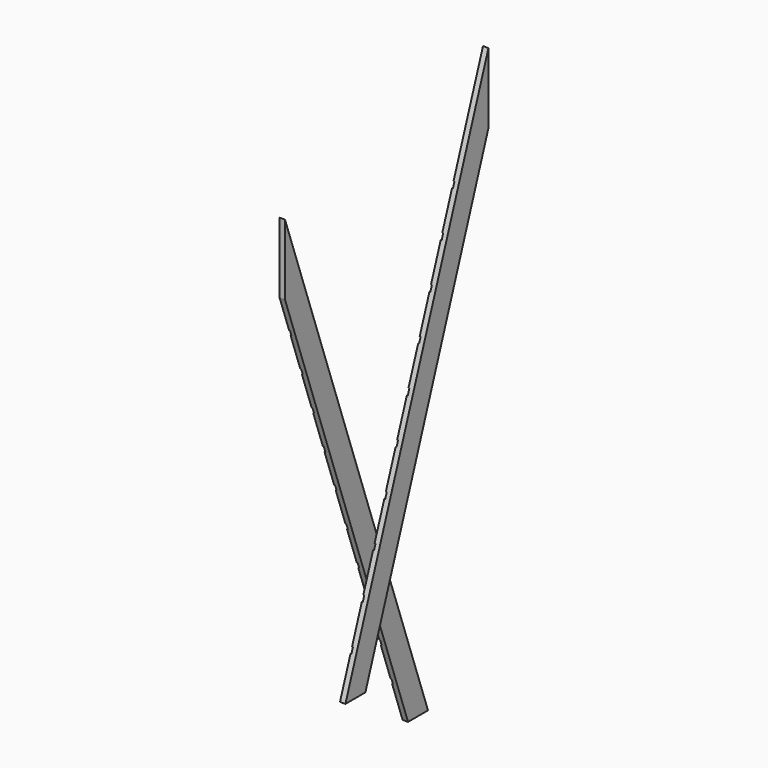
from build123d import *

# Parameters (mm, degrees)
F1_DEPTH  = 30
F2_W      = 250
F2_H      = 30
F2_W_2    = 234.575457871
F2_W_3    = 192.9415017366
F2_W_4    = 210.5176895857
F2_W_5    = 378.7932693958
F2_W_6    = 369.8027133942
F2_W_7    = 339.6961390972
F2_W_8    = 379.8424005508
F2_W_9    = 261.5640759468
F3_DEPTH  = 5
F6_DEPTH  = 30
F7_W      = 250
F7_H      = 30
F7_W_2    = 422.9962933395
F7_W_3    = 476.137507293
F7_W_4    = 411.4778074953
F7_W_5    = 423.6617717478
F7_W_6    = 250.9912997484
F7_W_7    = 268.522799015
F7_W_8    = 459.9343236122
F8_DEPTH  = 5
F9_W      = 278.933961407
F9_H      = 30
F10_DEPTH = 5


with BuildPart() as f1:
    # F0 (on Right) → F1 (new body)
    with BuildSketch(Plane.YZ):
        Polygon((850, 2789.3997687863), (-137.9124181118, 0), (0, 0), (850, 2400), align=None)
    extrude(amount=F1_DEPTH)

    # F2 (on face) → F3 (cut)
    with BuildSketch(Plane.YZ):
        with Locations((38.6135950685, 220)):
            Rectangle(F2_W, F2_H)
        with Locations((104.1569635272, 440)):
            Rectangle(F2_W, F2_H)
        with Locations((199.024643749, 660)):
            Rectangle(F2_W_2, F2_H)
        with Locations((236.8515357375, 880)):
            Rectangle(F2_W_3, F2_H)
        with Locations((315.3102472425, 1100)):
            Rectangle(F2_W_4, F2_H)
        with Locations((472.7641195059, 1320)):
            Rectangle(F2_W_5, F2_H)
        with Locations((518.2236433029, 1540)):
            Rectangle(F2_W_6, F2_H)
        with Locations((590.4171615839, 1760)):
            Rectangle(F2_W_7, F2_H)
        with Locations((687.6215338707, 1980)):
            Rectangle(F2_W_8, F2_H)
        with Locations((718.5953557491, 2200)):
            Rectangle(F2_W_9, F2_H)
    extrude(amount=F3_DEPTH, mode=Mode.SUBTRACT)


with BuildPart() as f6:
    # F5 (on offset) → F6 (new body)
    with BuildSketch(Plane(origin=(-400, 0, 0), x_dir=(0, -1, 0), z_dir=(-1, 0, 0))):
        Polygon((17.8902225808, 2167.8120785297), (-970.022195531, -621.5876902566), (-832.1097774192, -621.5876902566), (17.8902225808, 1778.4123097434), align=None)
    extrude(amount=F6_DEPTH)

    # F7 (on face) → F8 (cut)
    with BuildSketch(Plane(origin=(-430, 0, 0), x_dir=(0, -1, 0), z_dir=(-1, 0, 0))):
        with Locations((-807.6754808426, -401.5876902566)):
            Rectangle(F7_W, F7_H)
        with Locations((-736.1475229263, -181.5876902566)):
            Rectangle(F7_W, F7_H)
        with Locations((-736.4049607681, 38.4123097434)):
            Rectangle(F7_W_2, F7_H)
        with Locations((-651.1904837357, 258.4123097434)):
            Rectangle(F7_W_3, F7_H)
        with Locations((-554.2031245099, 478.4123097434)):
            Rectangle(F7_W_4, F7_H)
        with Locations((-486.4598529206, 698.4123097434)):
            Rectangle(F7_W_5, F7_H)
        with Locations((-287.626080215, 918.4123097434)):
            Rectangle(F7_W_6, F7_H)
        with Locations((-214.2028212547, 1138.4123097434)):
            Rectangle(F7_W_7, F7_H)
        with Locations((-204.9595301764, 1358.4123097434)):
            Rectangle(F7_W_8, F7_H)
    extrude(amount=-F8_DEPTH, mode=Mode.SUBTRACT)

    # F9 (on face) → F10 (cut)
    with BuildSketch(Plane(origin=(-430, 0, 0), x_dir=(0, -1, 0), z_dir=(-1, 0, 0))):
        with Locations((-96.3066720885, 1578.4123097434)):
            Rectangle(F9_W, F9_H)
    extrude(amount=-F10_DEPTH, mode=Mode.SUBTRACT)


solid = Compound([f1.part, f6.part])
